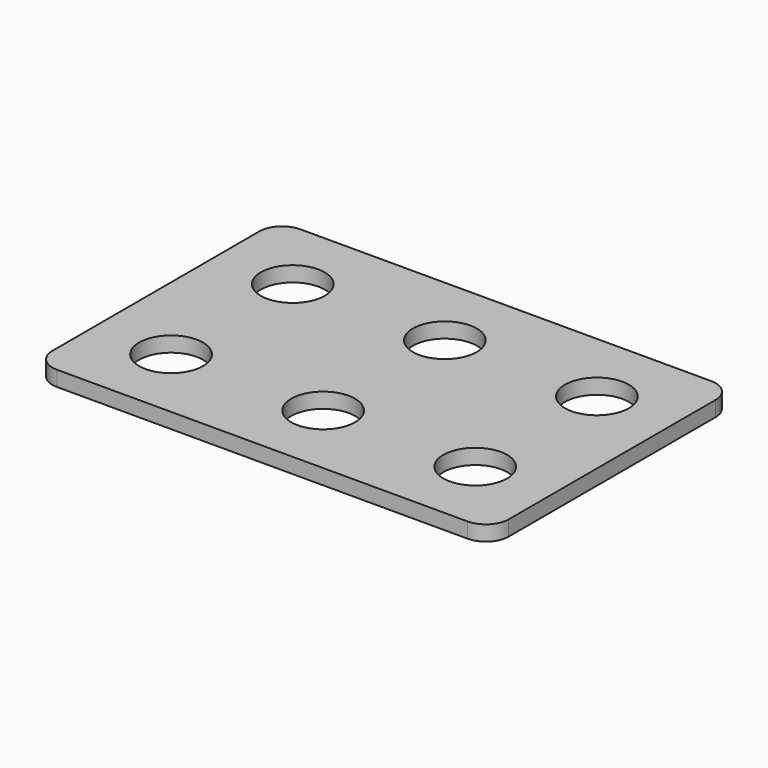
from build123d import *

# Parameters (mm, degrees)
SKETCH_R  = 2.1
PAD_DEPTH = 1


with BuildPart() as part:
    # Sketch → Pad (new body)
    with BuildSketch(Plane.XY):
        with BuildLine():
            Line((-3.5, 15), (23.5, 15))
            ThreePointArc((25, 13.5), (24.56066, 14.56066), (23.5, 15))
            Line((25, 13.5), (25, -3.5))
            ThreePointArc((23.5, -5), (24.56066, -4.56066), (25, -3.5))
            Line((23.5, -5), (-3.5, -5))
            ThreePointArc((-5, -3.5), (-4.56066, -4.56066), (-3.5, -5))
            Line((-5, -3.5), (-5, 13.5))
            ThreePointArc((-3.5, 15), (-4.56066, 14.56066), (-5, 13.5))
        make_face()
        Circle(SKETCH_R, mode=Mode.SUBTRACT)
        with Locations((0, 10)):
            Circle(SKETCH_R, mode=Mode.SUBTRACT)
        with Locations((10, 0)):
            Circle(SKETCH_R, mode=Mode.SUBTRACT)
        with Locations((20, 0)):
            Circle(SKETCH_R, mode=Mode.SUBTRACT)
        with Locations((10, 10)):
            Circle(SKETCH_R, mode=Mode.SUBTRACT)
        with Locations((20, 10)):
            Circle(SKETCH_R, mode=Mode.SUBTRACT)
    extrude(amount=PAD_DEPTH)


solid = part.part
